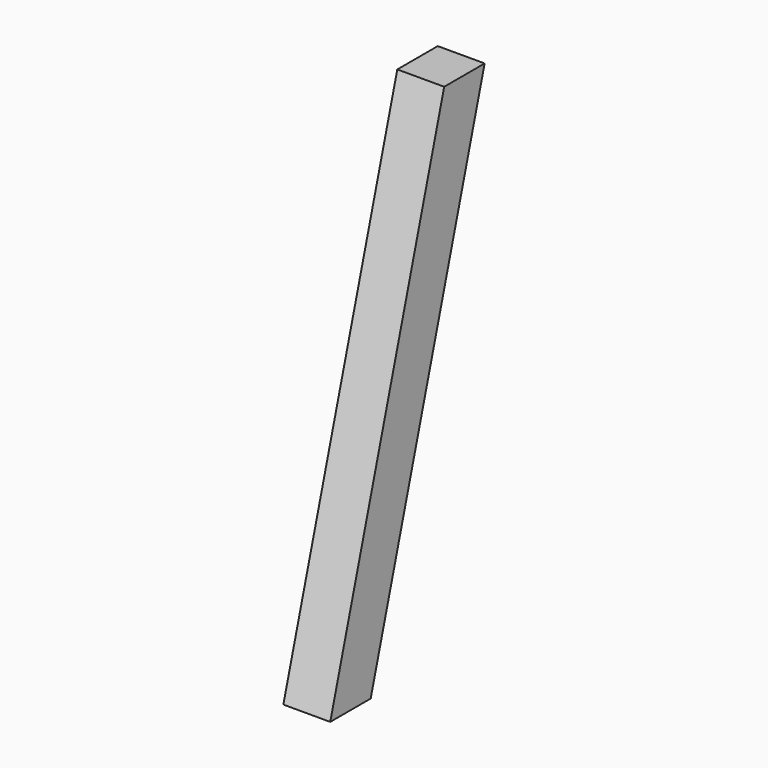
from build123d import *

# Parameters (mm, degrees)
F0_W     = 185.6569993703
F0_H     = 254
F1_DEPTH = 254
F3_DEPTH = 254.001
F5_DEPTH = 80.8801199059
F6_DEPTH = 80.8801199059
F7_DEPTH = 132.7040067302


with BuildPart() as f1:
    # F0 (on Front) → F1 (new body)
    with BuildSketch(Plane.XZ):
        with Locations((92.8284996852, 127)):
            Rectangle(F0_W, F0_H)
    extrude(amount=F1_DEPTH)

    # F2 (on face) → F3 (cut, through all)
    with BuildSketch(Plane.XZ.offset(254)):
        Polygon((127, 0), (104.7778794644, 254), (0, 254), (0, 0), align=None)
    extrude(amount=-F3_DEPTH, mode=Mode.SUBTRACT)

    # F4 (on face) → F5 (cut, through all)
    with BuildSketch(Plane.YZ.offset(185.6569993703)):
        Polygon((-254, 254), (-254, 0), (-148.7897551572, 254), align=None)
    extrude(amount=-F5_DEPTH, mode=Mode.SUBTRACT)

    # F4 (on face) → F6 (cut, through all)
    with BuildSketch(Plane.YZ.offset(185.6569993703)):
        Polygon((-121.2969932698, 254), (-226.5072381126, 0), (0, 0), (0, 254), align=None)
    extrude(amount=-F6_DEPTH, mode=Mode.SUBTRACT)

    # F2 (on face) → F7 (cut, through all)
    with BuildSketch(Plane.XZ.offset(254)):
        Polygon((185.6569993703, 254), (130.274903338, 254), (152.4970238736, 0), (185.6569993703, 0), align=None)
    extrude(amount=-F7_DEPTH, mode=Mode.SUBTRACT)


solid = f1.part
